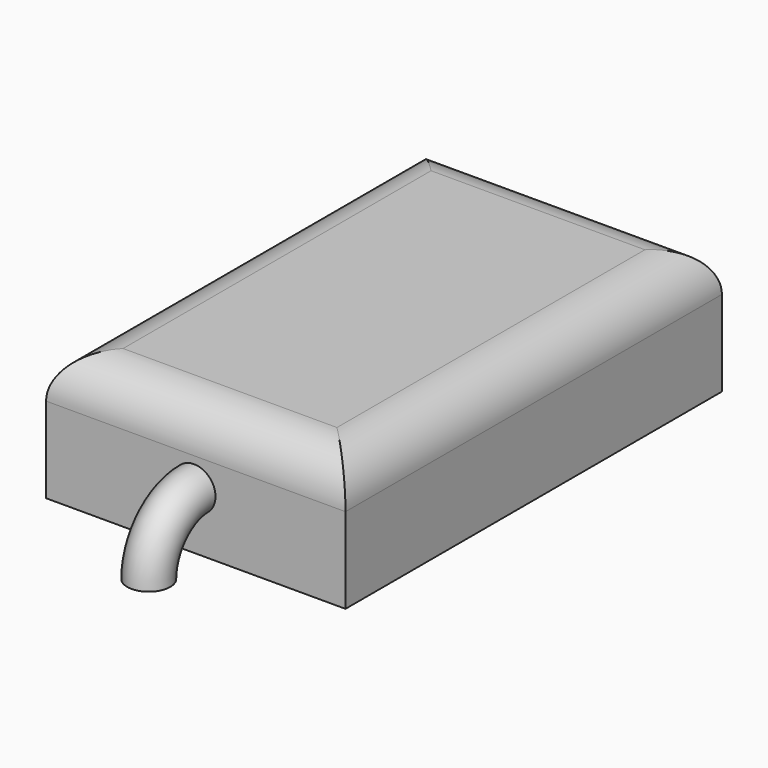
from build123d import *

# Parameters (mm, degrees)
F0_W     = 35.56
F0_H     = 55.88
F1_DEPTH = 15.24
F2_R     = 5.08
F3_R     = 2.549678
F4_ANGLE = 90


with BuildPart() as f1:
    # F0 (on Top) → F1 (new body)
    with BuildSketch(Plane.XY):
        with Locations((-27.240339, 1.234332)):
            Rectangle(F0_W, F0_H)
    extrude(amount=F1_DEPTH)

    # F2
    f2_edges = [f1.edges().sort_by_distance(p)[0] for p in [
        (-27.240339, 29.174332, 15.24),
        (-45.020339, 1.234332, 15.24),
        (-27.240339, -26.705668, 15.24),
        (-9.460339, 1.234332, 15.24),
    ]]
    fillet(f2_edges, radius=F2_R)

    # F3 (on face) → F4 (revolve)
    with BuildSketch(Plane.XZ.offset(26.705668)):
        with Locations((-27.447378, 6.727298)):
            Circle(F3_R)
    revolve(axis=Axis((-27.240339, -26.705668, 0), (1, 0, 0)), revolution_arc=F4_ANGLE)


solid = f1.part
